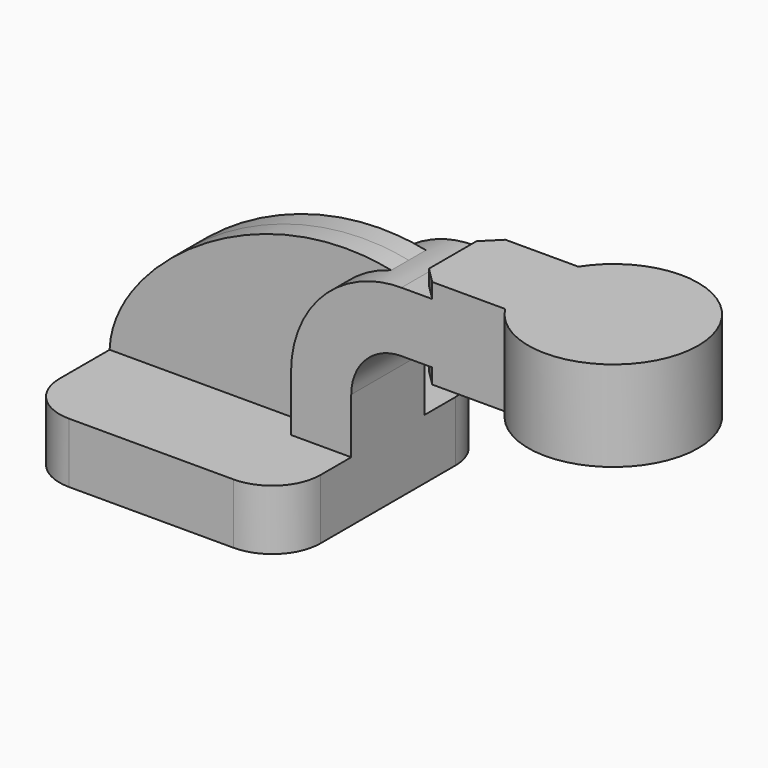
from build123d import *

# Parameters (mm, degrees)
F1_DEPTH = 41.91
F0_W     = 23.9135493911
F0_H     = 19.0500000095
F0_H_2   = 4.7497999905
F0_H_3   = 4.7752
F2_DEPTH = 14.478
F3_DEPTH = 6.858
F5_R     = 15.24
F6_SIZE  = 5.08


with BuildPart() as f1:
    # F0 (on Front) → F1 (new body, symmetric)
    with BuildSketch(Plane.XZ):
        Polygon((22.2249999905, 9.525), (-41.275, 9.525), (-41.275, -9.525), (41.275, -9.525), (41.275, 9.525), align=None)
    extrude(amount=F1_DEPTH, both=True)

    # F0 (on Front) → F2 (join, symmetric)
    with BuildSketch(Plane.XZ):
        with Locations((73.7682253044, 52.4002000047)):
            Rectangle(F0_W, F0_H)
        Polygon((85.725, 66.675), (85.725, 61.9252000095), (85.725, 42.8752), (85.725, 38.1), (112.6114506089, 38.1), (112.6114506089, 66.675), align=None)
        with Locations((73.7682253044, 64.3001000047)):
            Rectangle(F0_W, F0_H_2)
        with Locations((73.7682253044, 40.4876)):
            Rectangle(F0_W, F0_H_3)
        with BuildLine():
            Line((22.2249999905, 27.0002), (22.2249999905, 9.525))
            Line((22.2249999905, 9.525), (41.275, 9.525))
            Line((41.275, 9.525), (41.275, 27.0002))
            ThreePointArc((41.275, 27.0002), (45.9246798487, 38.2255201513), (57.15, 42.8752))
            Line((57.15, 42.8752), (61.8114506089, 42.8752))
            Line((61.8114506089, 42.8752), (61.8114506089, 61.9252000095))
            Line((61.8114506089, 61.9252000095), (57.15, 61.9252000095))
            ThreePointArc((57.15, 61.9252000095), (52.4471910202, 61.6071243557), (47.8300426869, 60.6586910735))
            ThreePointArc((47.8300426869, 60.6586910735), (29.3538209918, 48.1456027677), (22.2249999905, 27.0002))
        make_face()
    extrude(amount=F2_DEPTH, both=True)

    # F0 (on Front) → F3 (join, symmetric)
    with BuildSketch(Plane.XZ):
        with BuildLine():
            add(Edge.make_bspline(
                [(-41.275, 9.525), (-40.409822017, 35.7104353607), (5.303404294, 69.4405809045), (47.8300426869, 60.6586910735)],
                knots=[0, 0, 0, 0, 102.734429453, 102.734429453, 102.734429453, 102.734429453], degree=3))
            Line((-41.275, 9.525), (22.2249999905, 9.525))
            Line((22.2249999905, 9.525), (22.2249999905, 27.0002))
            ThreePointArc((22.2249999905, 27.0002), (29.3538209918, 48.1456027677), (47.8300426869, 60.6586910735))
        make_face()
    extrude(amount=F3_DEPTH, both=True)

    # F0 (on Front) → F4 (revolve)
    with BuildSketch(Plane.XZ):
        Polygon((85.725, 66.675), (85.725, 61.9252000095), (85.725, 42.8752), (85.725, 38.1), (112.6114506089, 38.1), (112.6114506089, 66.675), align=None)
    revolve(axis=Axis((112.6114506089, 0, 52.3875), (0, 0, 1)))

    # F5
    f5_edges = [f1.edges().sort_by_distance(p)[0] for p in [
        (-41.275, -41.91, 0),
        (41.275, -41.91, 0),
        (41.275, 41.91, 0),
        (-41.275, 41.91, 0),
    ]]
    fillet(f5_edges, radius=F5_R)

    # F6
    f6_edges = [f1.edges().sort_by_distance(p)[0] for p in [
        (61.811451, -14.478, 64.3001),
        (61.811451, -14.478, 40.4876),
        (61.811451, 14.478, 64.3001),
        (61.811451, 14.478, 40.4876),
    ]]
    chamfer(f6_edges, length=F6_SIZE)


solid = f1.part
